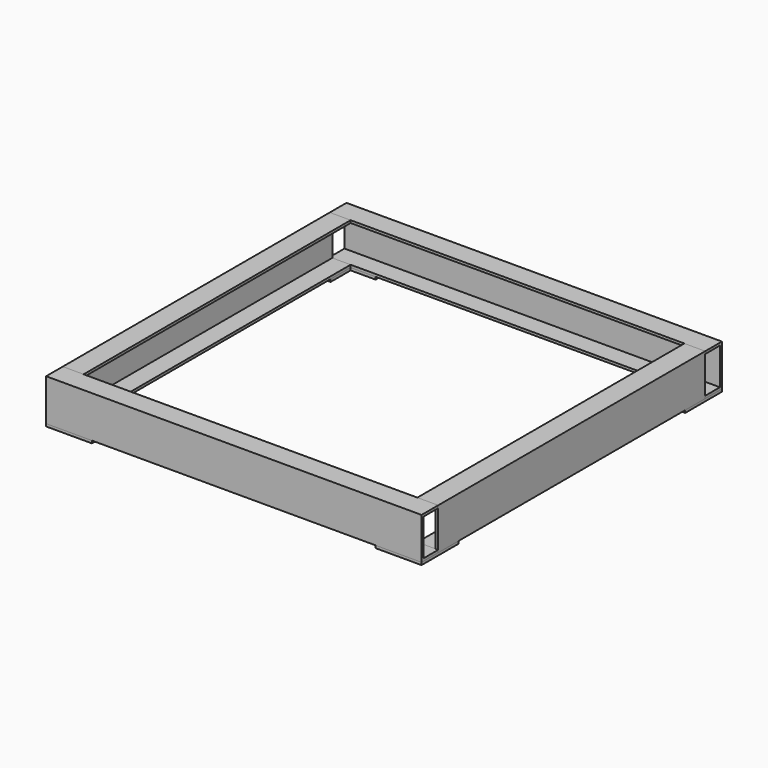
from build123d import *

# Parameters (mm, degrees)
F0_W      = 25
F0_H      = 400
F1_DEPTH  = 50
F2_DEPTH  = 50
F3_W      = 22
F3_H      = 44
F4_DEPTH  = 450
F6_W      = 22
F6_H      = 44
F7_DEPTH  = 400
F9_R      = 2
F10_DEPTH = 3


with BuildPart() as f1:
    # F0 (on Top) → F1 (new body)
    with BuildSketch(Plane.XY):
        with Locations((-212.5, 0)):
            Rectangle(F0_W, F0_H)
    extrude(amount=F1_DEPTH)

    # F6 (on face) → F7 (cut, through all)
    with BuildSketch(Plane.XZ.offset(200)):
        with Locations((-211, 25)):
            Rectangle(F6_W, F6_H)
    extrude(amount=-F7_DEPTH, mode=Mode.SUBTRACT)


with BuildPart() as f2:
    # F0 (on Top) → F2 (new body)
    with BuildSketch(Plane.XY):
        Polygon((200, 200), (225, 200), (225, 225), (-225, 225), (-225, 200), (-200, 200), align=None)
    extrude(amount=F2_DEPTH)

    # F3 (on face) → F4 (cut, through all)
    with BuildSketch(Plane(origin=(-225, 0, 0), x_dir=(0, -1, 0), z_dir=(-1, 0, 0))):
        with Locations((-211, 25)):
            Rectangle(F3_W, F3_H)
    extrude(amount=-F4_DEPTH, mode=Mode.SUBTRACT)


with BuildPart() as f5_1:
    # F5: instance of F2
    add(f2.part.mirror(Plane.XZ))


with BuildPart() as f8_1:
    # F8: instance of F1
    add(f1.part.mirror(Plane.YZ))


with BuildPart() as f10:
    # F9 (on face) → F10 (new body)
    with BuildSketch(Plane(origin=(0, 0, 0), x_dir=(1, 0, 0), z_dir=(0, 0, -1))):
        Polygon((-170, 225), (-225, 225), (-225, 170), (-200, 170), (-200, 200), (-170, 200), align=None)
        with Locations((-212.5, 180)):
            Circle(F9_R, mode=Mode.SUBTRACT)
        with Locations((-212.5, 190)):
            Circle(F9_R, mode=Mode.SUBTRACT)
        with Locations((-212.5, 212.5)):
            Circle(F9_R, mode=Mode.SUBTRACT)
        with Locations((-180, 212.5)):
            Circle(F9_R, mode=Mode.SUBTRACT)
    extrude(amount=F10_DEPTH)


with BuildPart() as f11_1:
    # F11: instance of F10
    add(f10.part.mirror(Plane.XZ))


with BuildPart() as f12_1:
    # F12: instance of F10
    add(f10.part.mirror(Plane.YZ))


with BuildPart() as f12_2:
    # F12: instance of F11_1
    add(f11_1.part.mirror(Plane.YZ))


solid = Compound([f1.part, f2.part, f5_1.part, f8_1.part, f10.part, f11_1.part, f12_1.part, f12_2.part])
